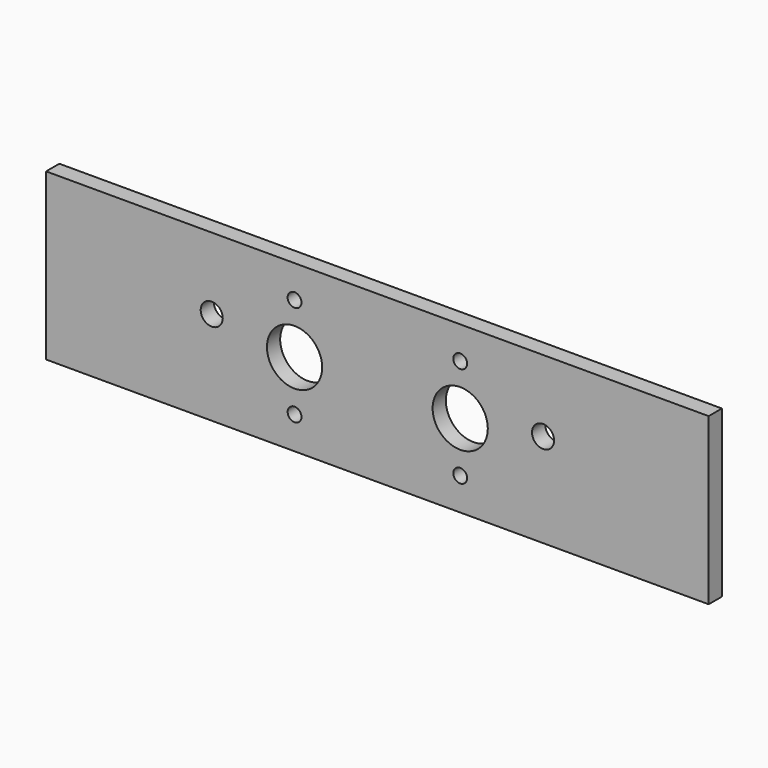
from build123d import *

# Parameters (mm, degrees)
SKETCH_W   = 240
SKETCH_H   = 60
SKETCH_R   = 10
SKETCH_R_2 = 2.5
SKETCH_R_3 = 4
PAD_DEPTH  = 6


with BuildPart() as part:
    # Sketch → Pad (new body)
    with BuildSketch(Plane.XZ):
        with Locations((120, 30)):
            Rectangle(SKETCH_W, SKETCH_H)
        with Locations((90, 30)):
            Circle(SKETCH_R, mode=Mode.SUBTRACT)
        with Locations((150, 30)):
            Circle(SKETCH_R, mode=Mode.SUBTRACT)
        with Locations((90, 11.75)):
            Circle(SKETCH_R_2, mode=Mode.SUBTRACT)
        with Locations((90, 48.25)):
            Circle(SKETCH_R_2, mode=Mode.SUBTRACT)
        with Locations((150, 48.25)):
            Circle(SKETCH_R_2, mode=Mode.SUBTRACT)
        with Locations((150, 11.75)):
            Circle(SKETCH_R_2, mode=Mode.SUBTRACT)
        with Locations((60, 34)):
            Circle(SKETCH_R_3, mode=Mode.SUBTRACT)
        with Locations((180, 34)):
            Circle(SKETCH_R_3, mode=Mode.SUBTRACT)
    extrude(amount=PAD_DEPTH)


solid = part.part
